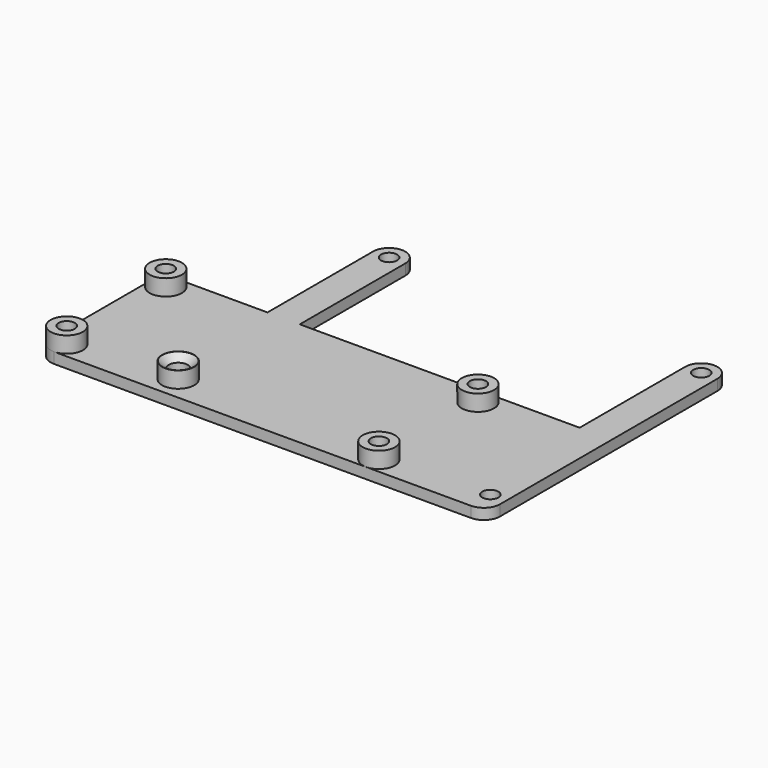
from build123d import *

# Parameters (mm, degrees)
SKETCH_R        = 1.5
PAD_DEPTH       = 2
SKETCH001_R     = 3
PAD001_DEPTH    = 3
SKETCH002_R     = 1.5
POCKET_DEPTH    = 5.001
SKETCH003_R     = 3
PAD002_DEPTH    = 5
SKETCH004_R     = 1.75
POCKET001_DEPTH = 5.001
CHAMFER_SIZE    = 1.2


with BuildPart() as body:
    # Sketch → Pad (new body)
    with BuildSketch(Plane.XY):
        with BuildLine():
            ThreePointArc((3, 49), (0, 52), (-3, 49))
            Line((-3, 49), (-3, 24.5))
            Line((-3, 24.5), (-19.5, 24.5))
            ThreePointArc((-19.5, 24.5), (-21.62132, 23.62132), (-22.5, 21.5))
            Line((-22.5, 21.5), (-22.5, -1.5))
            ThreePointArc((-22.5, -1.5), (-21.62132, -3.62132), (-19.5, -4.5))
            Line((-19.5, -4.5), (58, -4.5))
            ThreePointArc((58, -4.5), (60.121328, -3.621313), (61, -1.499979))
            Line((61, -1.499979), (61, 49))
            ThreePointArc((61, 49), (58, 52), (55, 49))
            Line((55, 24.5), (55, 49))
            Line((3, 24.5), (55, 24.5))
            Line((3, 49), (3, 24.5))
        make_face()
        Circle(SKETCH_R, mode=Mode.SUBTRACT)
        with Locations((58, 0)):
            Circle(SKETCH_R, mode=Mode.SUBTRACT)
        with Locations((0, 49)):
            Circle(SKETCH_R, mode=Mode.SUBTRACT)
        with Locations((58, 49)):
            Circle(SKETCH_R, mode=Mode.SUBTRACT)
    extrude(amount=PAD_DEPTH)

    # Sketch001 (on Face19 of Pad) → Pad001 (join)
    with BuildSketch(Plane.XY.offset(2)):
        with Locations((-19.5, 21.5)):
            Circle(SKETCH001_R)
        with Locations((-19.5, -1.5)):
            Circle(SKETCH001_R)
        with Locations((38.5, 21.5)):
            Circle(SKETCH001_R)
        with Locations((38.5, -1.5)):
            Circle(SKETCH001_R)
    extrude(amount=PAD001_DEPTH)

    # Sketch002 (on Face25 of Pad001) → Pocket (cut, through all)
    with BuildSketch(Plane.XY.offset(5)):
        with Locations((-19.5, 21.5)):
            Circle(SKETCH002_R)
        with Locations((-19.5, -1.5)):
            Circle(SKETCH002_R)
        with Locations((38.5, 21.5)):
            Circle(SKETCH002_R)
        with Locations((38.5, -1.5)):
            Circle(SKETCH002_R)
    extrude(amount=-POCKET_DEPTH, mode=Mode.SUBTRACT)


with BuildPart() as body001:
    # Sketch003 → Pad002 (new body)
    with BuildSketch(Plane.XY):
        Circle(SKETCH003_R)
    extrude(amount=PAD002_DEPTH)

    # Sketch004 (on Face3 of Pad002) → Pocket001 (cut, through all)
    with BuildSketch(Plane.XY.offset(5)):
        Circle(SKETCH004_R)
    extrude(amount=-POCKET001_DEPTH, mode=Mode.SUBTRACT)

    # Chamfer
    chamfer_edges = [body001.edges().sort_by_distance(p)[0] for p in [
        (-1.75, 0, 5),
    ]]
    chamfer(chamfer_edges, length=CHAMFER_SIZE)


solid = Compound([body.part, body001.part])
